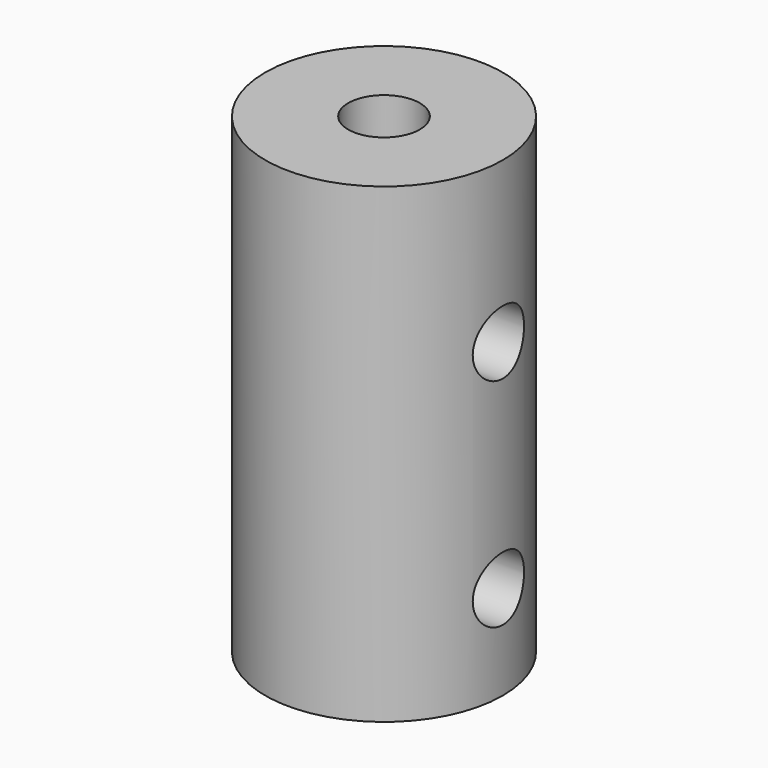
from build123d import *

# Parameters (mm, degrees)
F0_R     = 8.001
F0_R_2   = 1.27
F1_DEPTH = 31.75
F2_R     = 2.413
F2_R_2   = 1.27
F3_DEPTH = 19.05
F4_R     = 2.159
F5_DEPTH = 12.7
F6_DEPTH = 12.7


with BuildPart() as f1:
    # F0 (on Top) → F1 (new body)
    with BuildSketch(Plane.XY):
        Circle(F0_R)
        Circle(F0_R_2, mode=Mode.SUBTRACT)
    extrude(amount=F1_DEPTH)

    # F2 (on face) → F3 (cut)
    with BuildSketch(Plane.XY.offset(31.75)):
        Circle(F2_R)
        Circle(F2_R_2, mode=Mode.SUBTRACT)
    extrude(amount=-F3_DEPTH, mode=Mode.SUBTRACT)

    # F4 (on Right) → F5 (cut, symmetric)
    with BuildSketch(Plane.YZ):
        with Locations((0, 20.955)):
            Circle(F4_R)
    extrude(amount=F5_DEPTH, both=True, mode=Mode.SUBTRACT)

    # F4 (on Right) → F6 (cut, symmetric)
    with BuildSketch(Plane.YZ):
        with Locations((0, 6.35)):
            Circle(F4_R)
    extrude(amount=F6_DEPTH, both=True, mode=Mode.SUBTRACT)


solid = f1.part
